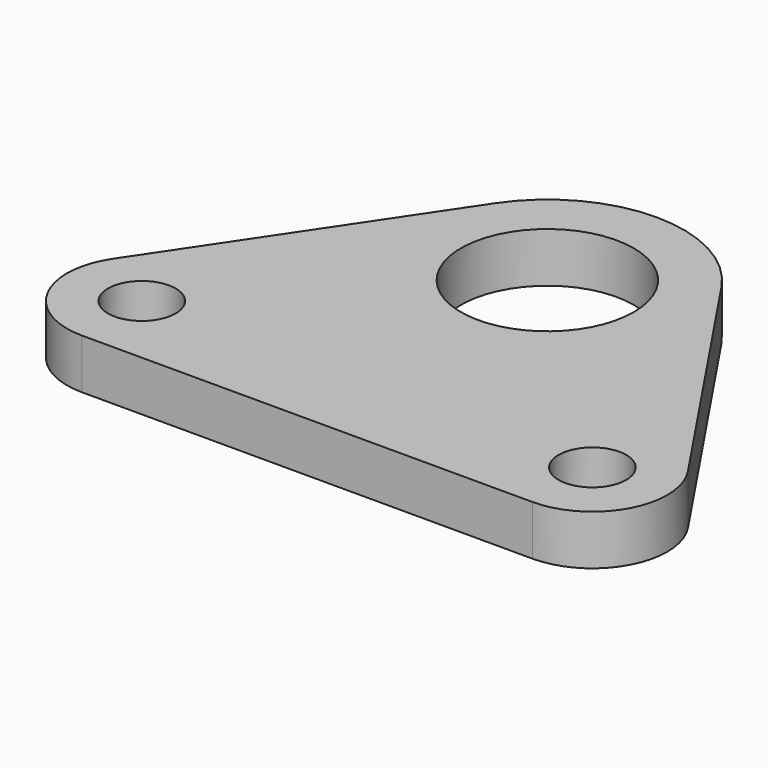
from build123d import *

# Parameters (mm, degrees)
F0_R     = 2.15265
F0_R_2   = 5.5
F1_DEPTH = 3.175


with BuildPart() as f1:
    # F0 (on Top) → F1 (new body)
    with BuildSketch(Plane.XY):
        with BuildLine():
            Line((18.280792, -11.672377), (7.203258, 4.834118))
            ThreePointArc((7.203258, 4.834118), (0, 8.675), (-7.203258, 4.834118))
            Line((-7.203258, 4.834118), (-18.280792, -11.672377))
            ThreePointArc((-18.280792, -11.672377), (-18.528679, -16.567053), (-14.326265, -19.088765))
            Line((-14.326265, -19.088765), (14.326265, -19.088765))
            ThreePointArc((14.326265, -19.088765), (18.528679, -16.567053), (18.280792, -11.672377))
        make_face()
        with Locations((-14.326265, -14.326265)):
            Circle(F0_R, mode=Mode.SUBTRACT)
        with Locations((14.326265, -14.326265)):
            Circle(F0_R, mode=Mode.SUBTRACT)
        Circle(F0_R_2, mode=Mode.SUBTRACT)
    extrude(amount=F1_DEPTH)


solid = f1.part
